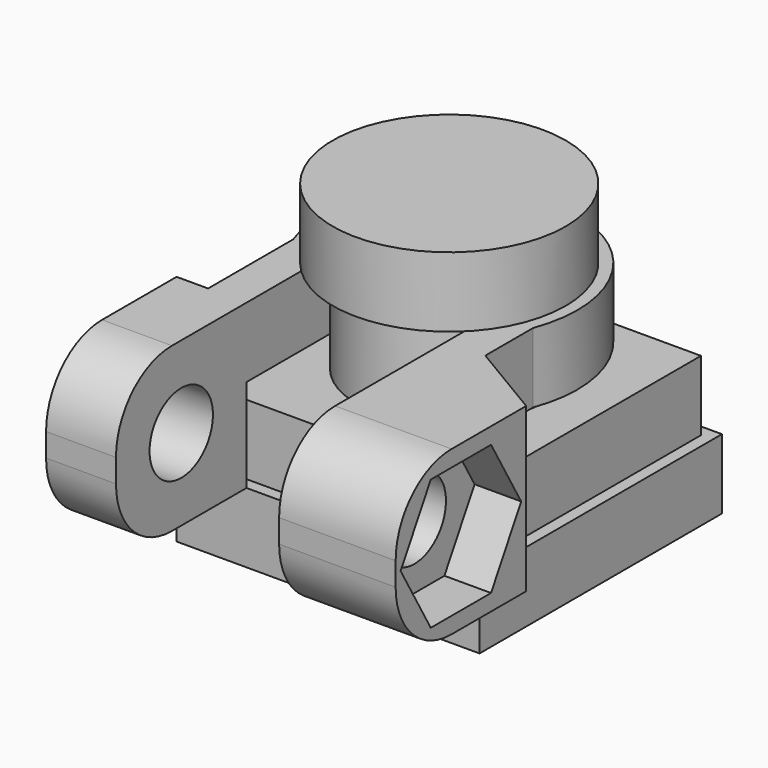
from build123d import *

# Parameters (mm, degrees)
BOX_W           = 13
BOX_H           = 13
BOX_DEPTH       = 3
SKETCH_W        = 12
SKETCH_H        = 12
PAD_DEPTH       = 3
SKETCH001_R     = 4
PAD001_DEPTH    = 4
SKETCH002_R     = 5
PAD002_DEPTH    = 3
PAD003_DEPTH    = 7
SKETCH004_R     = 1.7
POCKET_DEPTH    = 20
POCKET001_DEPTH = 2
SKETCH006_W     = 13
SKETCH006_H     = 13
POCKET002_DEPTH = 4
FILLET_R        = 3


with BuildPart() as camera:
    # Box → Box (new body)
    with BuildSketch(Plane.XY):
        with Locations((6.5, 6.5)):
            Rectangle(BOX_W, BOX_H)
    extrude(amount=BOX_DEPTH)

    # Sketch → Pad (new body)
    with BuildSketch(Plane.XY.offset(3)):
        with Locations((6.5, 6.5)):
            Rectangle(SKETCH_W, SKETCH_H)
    extrude(amount=PAD_DEPTH)

    # Sketch001 → Pad001 (new body)
    with BuildSketch(Plane.XY.offset(6)):
        with Locations((6.5, 6.5)):
            Circle(SKETCH001_R)
    extrude(amount=PAD001_DEPTH)

    # Sketch002 → Pad002 (new body)
    with BuildSketch(Plane.XY.offset(10)):
        with Locations((6.5, 6.5)):
            Circle(SKETCH002_R)
    extrude(amount=PAD002_DEPTH)


with BuildPart() as fillet_body:
    # Sketch003 → Pad003 (new body)
    with BuildSketch(Plane.XY.offset(3)):
        with BuildLine():
            ThreePointArc((10, 4.563508), (6.5, 10.5), (3, 4.563508))
            Line((3, -7), (3, 4.563508))
            Line((0, -7), (3, -7))
            Line((0, 0), (0, -7))
            Line((0, 0), (1.352185, 0))
            Line((1.352185, 4.563508), (1.352185, 0))
            ThreePointArc((11.647815, 4.563508), (6.5, 12), (1.352185, 4.563508))
            Line((11.647815, 4.563508), (11.647815, 2))
            Line((11.647815, 2), (15, 0))
            Line((15, -7), (15, 0))
            Line((10, -7), (15, -7))
            Line((10, 4.563508), (10, -7))
        make_face()
    extrude(amount=PAD003_DEPTH)

    # Sketch004 → Pocket (cut)
    with BuildSketch(Plane(origin=(0, 0, 3), x_dir=(0, -1, 0), z_dir=(-1, 0, 0))):
        with Locations((3.5, 3.5)):
            Circle(SKETCH004_R)
    extrude(amount=-POCKET_DEPTH, mode=Mode.SUBTRACT)

    # Sketch005 → Pocket001 (cut)
    with BuildSketch(Plane(origin=(15, 0, 3), x_dir=(0, 1, 0), z_dir=(1, 0, 0))):
        Polygon((-5.116581, 6.3), (-6.733162, 3.5), (-5.116581, 0.7), (-1.883419, 0.7), (-0.266838, 3.5), (-1.883419, 6.3), align=None)
    extrude(amount=-POCKET001_DEPTH, mode=Mode.SUBTRACT)

    # Sketch006 → Pocket002 (cut)
    with BuildSketch(Plane(origin=(0, 0, 3), x_dir=(1, 0, 0), z_dir=(0, 0, -1))):
        with Locations((6.5, -6.5)):
            Rectangle(SKETCH006_W, SKETCH006_H)
    extrude(amount=-POCKET002_DEPTH, mode=Mode.SUBTRACT)

    # Fillet
    fillet_edges = [fillet_body.edges().sort_by_distance(p)[0] for p in [
        (12.5, -7, 3),
        (12.5, -7, 10),
        (1.5, -7, 10),
        (1.5, -7, 3),
    ]]
    fillet(fillet_edges, radius=FILLET_R)


solid = Compound([camera.part, fillet_body.part])
